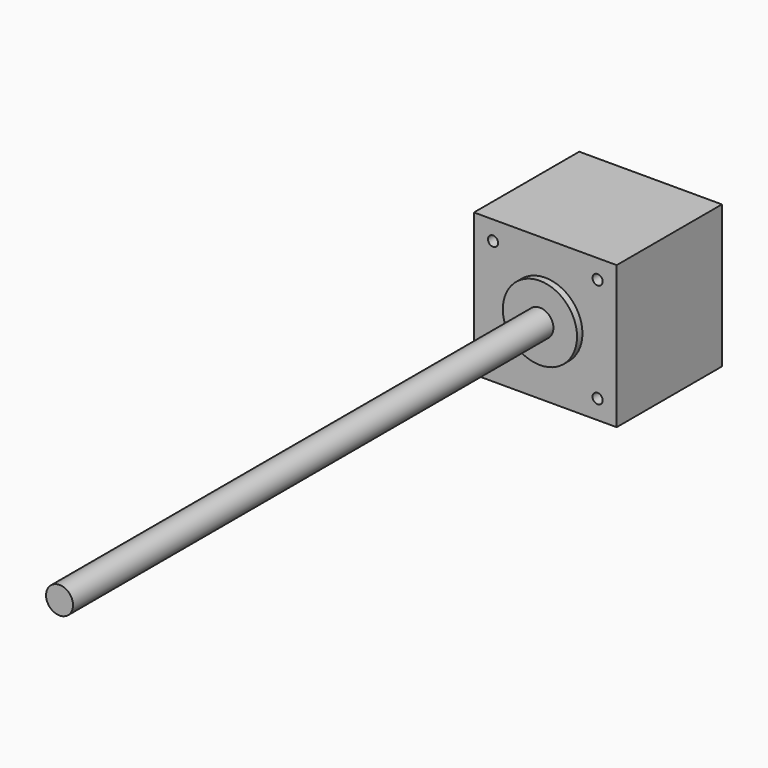
from build123d import *

# Parameters (mm, degrees)
F0_W     = 42.3
F0_H     = 42.3
F0_R     = 1.5
F0_R_2   = 11
F0_R_3   = 4
F0_R_4   = 2.5
F1_DEPTH = 39
F2_DEPTH = 2
F3_DEPTH = 4
F5_DEPTH = 180
F6_DEPTH = 24


with BuildPart() as f1:
    # F0 (on Front) → F1 (new body)
    with BuildSketch(Plane.XZ):
        with Locations((21.15, 21.15)):
            Rectangle(F0_W, F0_H)
        with Locations((5.65, 5.65)):
            Circle(F0_R, mode=Mode.SUBTRACT)
        with Locations((36.65, 5.65)):
            Circle(F0_R, mode=Mode.SUBTRACT)
        with Locations((5.65, 36.65)):
            Circle(F0_R, mode=Mode.SUBTRACT)
        with Locations((21.15, 21.15)):
            Circle(F0_R_2, mode=Mode.SUBTRACT)
        with Locations((36.65, 36.65)):
            Circle(F0_R, mode=Mode.SUBTRACT)
        with Locations((5.65, 36.65)):
            Circle(F0_R)
        with Locations((36.65, 36.65)):
            Circle(F0_R)
        with Locations((21.15, 21.15)):
            Circle(F0_R_2)
        with Locations((21.15, 21.15)):
            Circle(F0_R_3, mode=Mode.SUBTRACT)
        with Locations((5.65, 5.65)):
            Circle(F0_R)
        with Locations((36.65, 5.65)):
            Circle(F0_R)
        with Locations((21.15, 21.15)):
            Circle(F0_R_3)
        with Locations((21.15, 21.15)):
            Circle(F0_R_4, mode=Mode.SUBTRACT)
        with Locations((21.15, 21.15)):
            Circle(F0_R_4)
    extrude(amount=-F1_DEPTH)

    # F0 (on Front) → F2 (join)
    with BuildSketch(Plane.XZ):
        with Locations((21.15, 21.15)):
            Circle(F0_R_2)
        with Locations((21.15, 21.15)):
            Circle(F0_R_3, mode=Mode.SUBTRACT)
        with Locations((21.15, 21.15)):
            Circle(F0_R_3)
        with Locations((21.15, 21.15)):
            Circle(F0_R_4, mode=Mode.SUBTRACT)
        with Locations((21.15, 21.15)):
            Circle(F0_R_4)
    extrude(amount=F2_DEPTH)

    # F0 (on Front) → F3 (cut)
    with BuildSketch(Plane.XZ):
        with Locations((5.65, 36.65)):
            Circle(F0_R)
        with Locations((36.65, 36.65)):
            Circle(F0_R)
        with Locations((36.65, 5.65)):
            Circle(F0_R)
        with Locations((5.65, 5.65)):
            Circle(F0_R)
    extrude(amount=-F3_DEPTH, mode=Mode.SUBTRACT)


with BuildPart() as f4_1:
    # F4: copy of F1
    add(f1.part)

    # F0 (on Front) → F5 (join)
    with BuildSketch(Plane.XZ):
        with Locations((21.15, 21.15)):
            Circle(F0_R_3)
        with Locations((21.15, 21.15)):
            Circle(F0_R_4, mode=Mode.SUBTRACT)
        with Locations((21.15, 21.15)):
            Circle(F0_R_4)
    extrude(amount=F5_DEPTH)


with BuildPart() as f1_1:
    add(f1.part)

    # F0 (on Front) → F6 (join)
    with BuildSketch(Plane.XZ):
        with Locations((21.15, 21.15)):
            Circle(F0_R_4)
    extrude(amount=F6_DEPTH)


solid = Compound([f4_1.part, f1_1.part])
